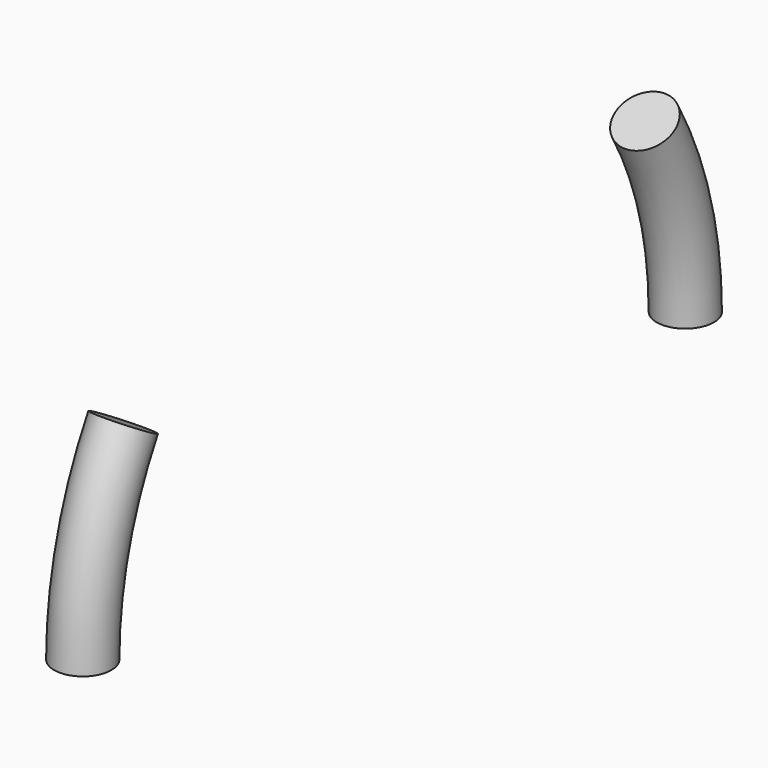
from build123d import *

# Parameters (mm, degrees)
F0_R = 10


with BuildPart() as f2:
    # F2: sweep along a path in F1
    with BuildLine(Plane.YZ) as f2_path:
        ThreePointArc((-113.882341, 65.75), (-127.019246, 34.034704), (-131.5, 0))
    # F0 (on Top) → F2 (sweep)
    with BuildSketch(Plane.XY):
        with Locations((0, -131.5)):
            Circle(F0_R)
    sweep(path=f2_path.line)


with BuildPart() as f3:
    # F3: sweep along a path in F1
    with BuildLine(Plane.YZ) as f3_path:
        ThreePointArc((131.5, 0), (127.019246, 34.034704), (113.882341, 65.75))
    # F0 (on Top) → F3 (sweep)
    with BuildSketch(Plane.XY):
        with Locations((0, 131.5)):
            Circle(F0_R)
    sweep(path=f3_path.line)


solid = Compound([f2.part, f3.part])
